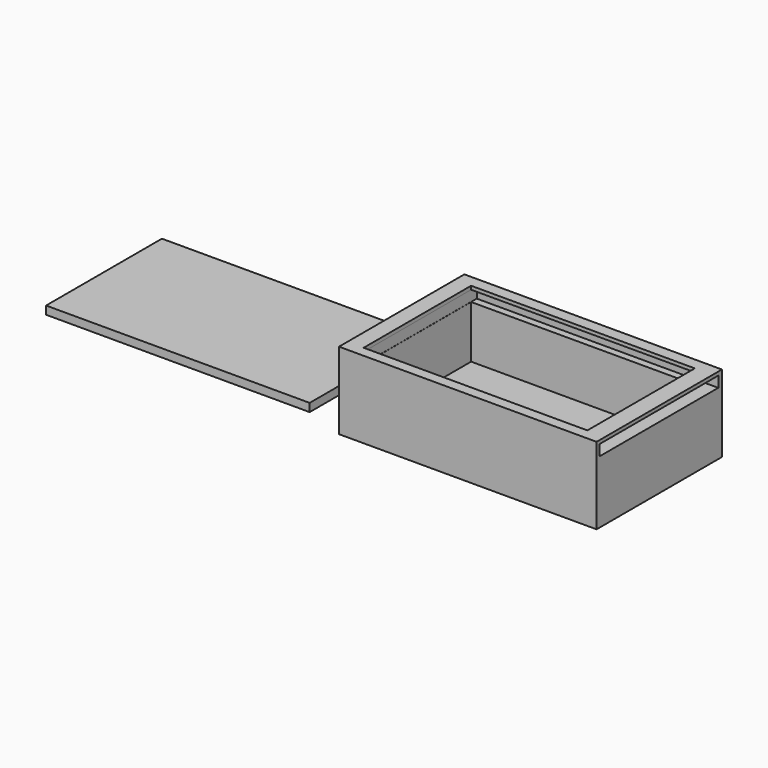
from build123d import *

# Parameters (mm, degrees)
F0_W     = 173.836689
F0_H     = 105.727557
F1_DEPTH = 52
F2_W     = 150.984712
F2_H     = 90.647487
F3_DEPTH = 45.1
F4_W     = 100.227278
F4_H     = 7.294171
F5_DEPTH = 163
F6_W     = 177.884955
F6_H     = 97.722433
F7_DEPTH = 5.5


with BuildPart() as f1:
    # F0 (on Top) → F1 (new body)
    with BuildSketch(Plane.XY):
        with Locations((40.70487, -16.462466)):
            Rectangle(F0_W, F0_H)
    extrude(amount=F1_DEPTH)

    # F2 (on face) → F3 (cut)
    with BuildSketch(Plane.XY.offset(52)):
        with Locations((40.191997, -16.854768)):
            Rectangle(F2_W, F2_H)
    extrude(amount=-F3_DEPTH, mode=Mode.SUBTRACT)

    # F4 (on face) → F5 (cut)
    with BuildSketch(Plane.YZ.offset(127.623215)):
        with Locations((-16.780259, 45.992807)):
            Rectangle(F4_W, F4_H)
    extrude(amount=-F5_DEPTH, mode=Mode.SUBTRACT)


with BuildPart() as f7:
    # F6 (on Top) → F7 (new body)
    with BuildSketch(Plane.XY):
        with Locations((-162.958532, -10.47972)):
            Rectangle(F6_W, F6_H)
        with Locations((-162.958532, -10.47972)):
            Rectangle(F6_W, F6_H)
    extrude(amount=F7_DEPTH)


solid = Compound([f1.part, f7.part])
